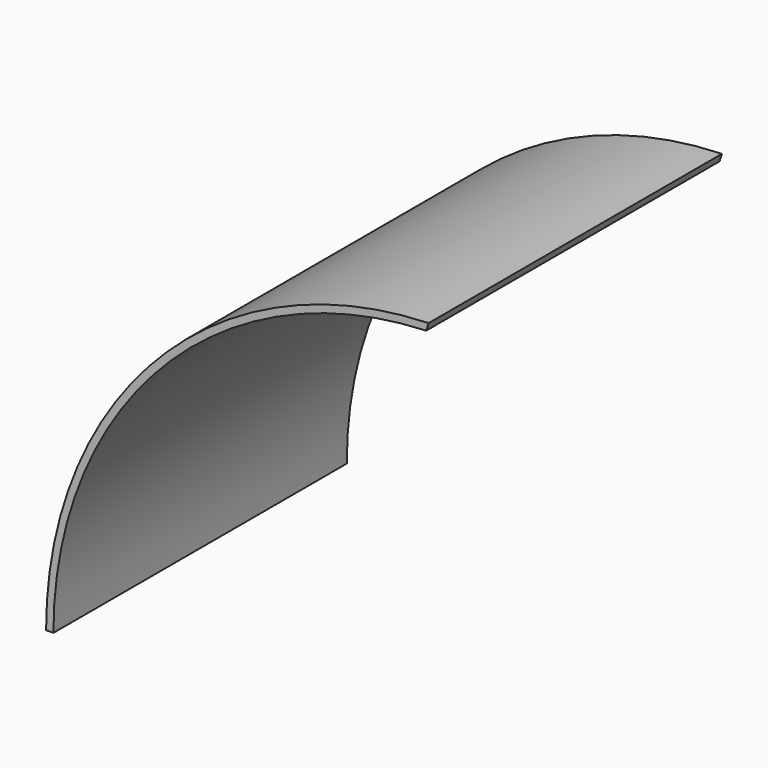
from build123d import *

# Parameters (mm, degrees)
F1_DEPTH = 6
F2_DEPTH = 250


with BuildPart() as f1:
    # F0 (on Front) → F1 (new body)
    with BuildSketch(Plane.XZ):
        with BuildLine():
            Line((239.936832, 264.066564), (241.535774, 269.12517))
            ThreePointArc((241.535774, 269.12517), (56.636272, 187.377877), (-19.25824, 0))
            Line((-19.25824, 0), (-14.25824, 0))
            ThreePointArc((-14.25824, 0), (59.616581, 183.266394), (239.936832, 264.066564))
        make_face()
    extrude(amount=-F1_DEPTH)

    # F0 (on Front) + F1_face (on face) → F2 (join)
    with BuildSketch(Plane.XZ):
        with BuildLine():
            Line((239.936832, 264.066564), (241.535774, 269.12517))
            ThreePointArc((241.535774, 269.12517), (56.636272, 187.377877), (-19.25824, 0))
            Line((-19.25824, 0), (-14.25824, 0))
            ThreePointArc((-14.25824, 0), (59.616581, 183.266394), (239.936832, 264.066564))
        make_face()
    with BuildSketch(Plane(origin=(76.436369, 0, 167.639659), x_dir=(1, 0, 0), z_dir=(0, -1, 0))):
        with BuildLine():
            Line((-95.694609, -167.639659), (-90.694609, -167.639659))
            ThreePointArc((-90.694609, -167.639659), (-16.819788, 15.626735), (163.500464, 96.426905))
            Line((163.500464, 96.426905), (165.099405, 101.48551))
            ThreePointArc((165.099405, 101.48551), (-19.800097, 19.738217), (-95.694609, -167.639659))
        make_face()
    extrude(amount=-F2_DEPTH)


solid = f1.part
